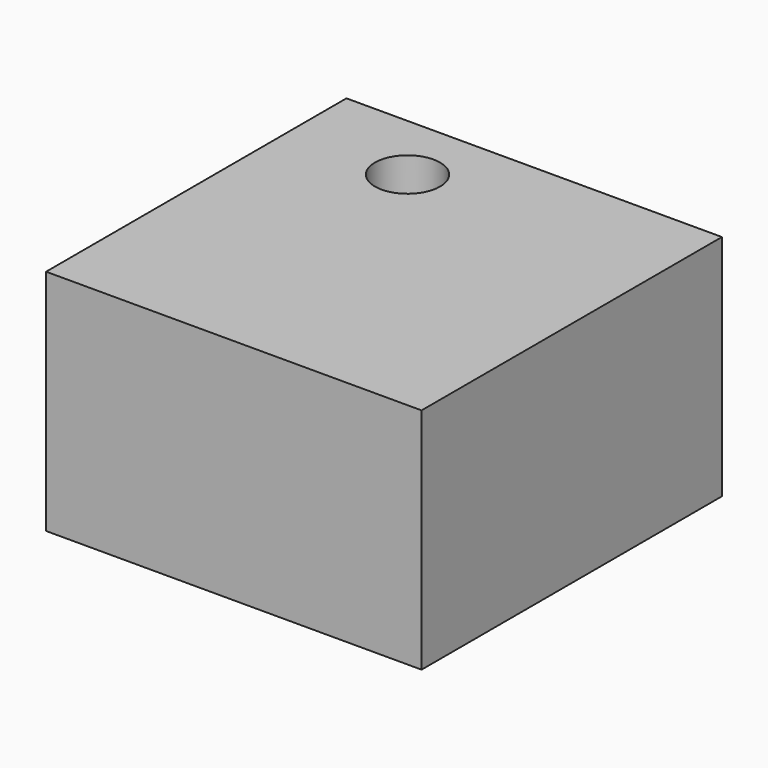
from build123d import *

# Parameters (mm, degrees)
F0_W     = 31.75
F0_H     = 31.75
F0_R     = 2.752784
F1_DEPTH = 19.304
F2_T     = -1.27


with BuildPart() as f1:
    # F0 (on Top) → F1 (new body)
    with BuildSketch(Plane.XY):
        with Locations((-35.040894, 26.218499)):
            Rectangle(F0_W, F0_H)
        with Locations((-40.957741, 36.100838)):
            Circle(F0_R, mode=Mode.SUBTRACT)
    extrude(amount=F1_DEPTH)

    # F2
    f2_openings = [f1.faces().sort_by_distance(p)[0] for p in [
        (-34.897782, 25.979472, 0),
    ]]
    offset(amount=F2_T, openings=f2_openings)


solid = f1.part
